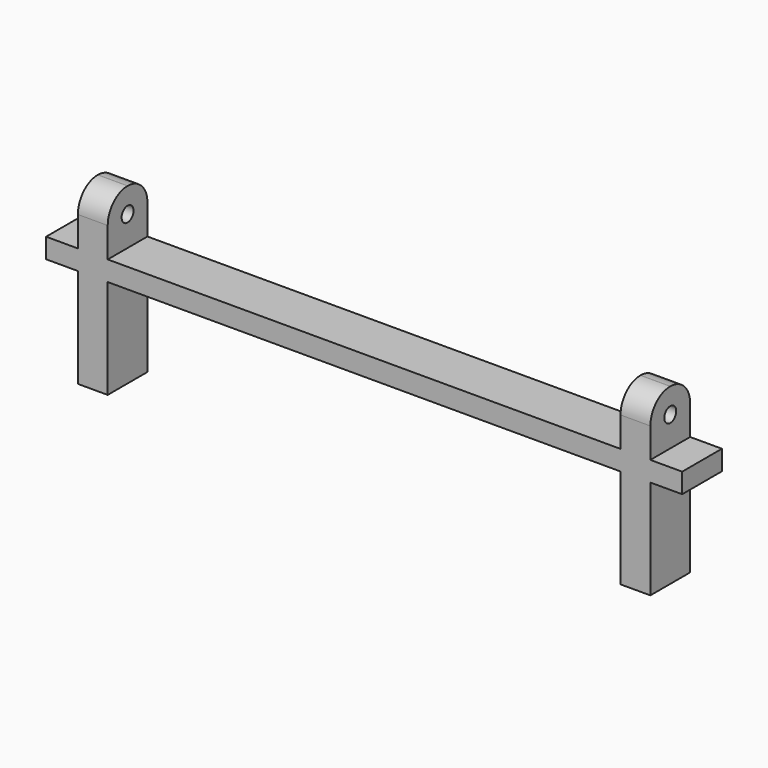
from build123d import *

# Parameters (mm, degrees)
SKETCH_W     = 64
SKETCH_H     = 5
PAD_DEPTH    = 2
SKETCH001_W  = 3
SKETCH001_H  = 5
PAD001_DEPTH = 5.5
SKETCH002_R  = 0.75
POCKET_DEPTH = 70
SKETCH003_W  = 3
SKETCH003_H  = 5
PAD002_DEPTH = 10
FILLET_R     = 2.49


with BuildPart() as part:
    # Sketch → Pad (new body)
    with BuildSketch(Plane.XY):
        Rectangle(SKETCH_W, SKETCH_H)
    extrude(amount=PAD_DEPTH)

    # Sketch001 (on Face6 of Pad) → Pad001 (join)
    with BuildSketch(Plane.XY.offset(2)):
        with Locations((-27.3, 0)):
            Rectangle(SKETCH001_W, SKETCH001_H)
        with Locations((27.3, 0)):
            Rectangle(SKETCH001_W, SKETCH001_H)
    extrude(amount=PAD001_DEPTH)

    # Sketch002 (on Face15 of Pad001) → Pocket (cut)
    with BuildSketch(Plane.YZ.offset(28.8)):
        with Locations((0, 5)):
            Circle(SKETCH002_R)
    extrude(amount=-POCKET_DEPTH, mode=Mode.SUBTRACT)

    # Sketch003 (on Face4 of Pocket) → Pad002 (join)
    with BuildSketch(Plane(origin=(0, 0, 0), x_dir=(1, 0, 0), z_dir=(0, 0, -1))):
        with Locations((-27.3, 0)):
            Rectangle(SKETCH003_W, SKETCH003_H)
        with Locations((27.3, 0)):
            Rectangle(SKETCH003_W, SKETCH003_H)
    extrude(amount=PAD002_DEPTH)

    # Fillet
    fillet_edges = [part.edges().sort_by_distance(p)[0] for p in [
        (27.3, -2.5, 7.5),
        (-27.3, -2.5, 7.5),
        (-27.3, 2.5, 7.5),
        (27.3, 2.5, 7.5),
    ]]
    fillet(fillet_edges, radius=FILLET_R)


solid = part.part
